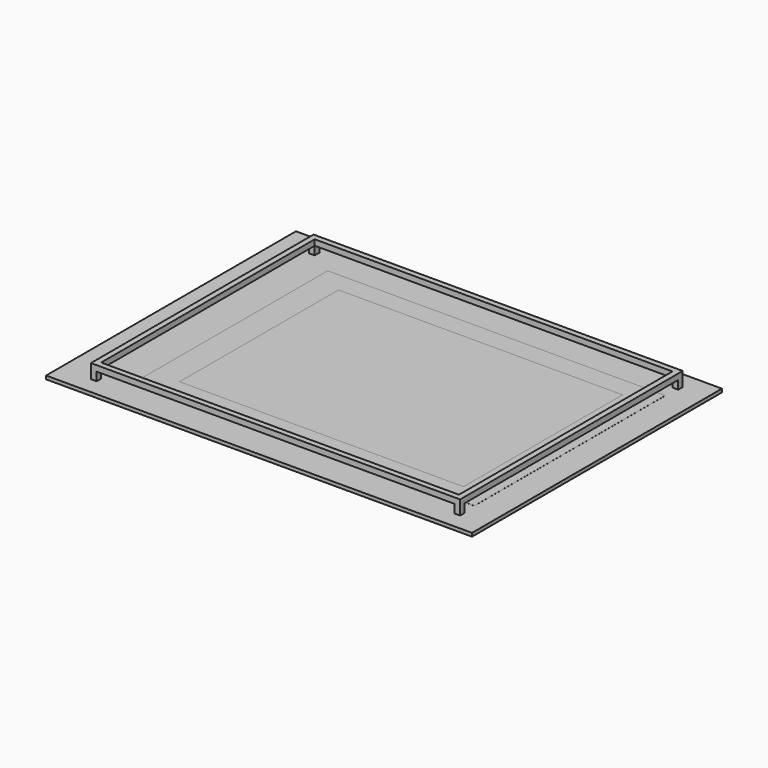
from build123d import *

# Parameters (mm, degrees)
F1_W      = 1500
F1_H      = 1100
F3_DEPTH  = 12
F5_W      = 1300
F5_H      = 980
F5_W_2    = 1260
F5_H_2    = 940
F6_DEPTH  = 10
F7_W      = 20
F7_H      = 20
F8_DEPTH  = 50
F9_DEPTH  = 12
F10_W     = 1189
F10_H     = 841
F11_DEPTH = 0.2
F12_W     = 1000
F12_H     = 700
F13_DEPTH = 0.2


with BuildPart() as f3:
    # F1 (on Top) → F3 (new body)
    with BuildSketch(Plane.XY):
        with Locations((-10, 0)):
            Rectangle(F1_W, F1_H)
    extrude(amount=-F3_DEPTH)



with BuildPart() as f6:
    # F5 (on offset) → F6 (new body, symmetric)
    with BuildSketch(Plane.XY.offset(40)):
        Rectangle(F5_W, F5_H)
        Rectangle(F5_W_2, F5_H_2, mode=Mode.SUBTRACT)
    extrude(amount=F6_DEPTH, both=True)


with BuildPart() as f3_1:
    add(f3.part)

    add(f6.part)  # F8 merges F6
    # F7 (on face) → F8 (join, through all)
    with BuildSketch(Plane.XY.offset(50)):
        with Locations((-640, 480)):
            Rectangle(F7_W, F7_H)
        with Locations((640, 480)):
            Rectangle(F7_W, F7_H)
        with Locations((640, -480)):
            Rectangle(F7_W, F7_H)
        with Locations((-640, -480)):
            Rectangle(F7_W, F7_H)
    extrude(amount=-F8_DEPTH)


with BuildPart() as f9:
    # F1 (on Top) → F9 (new body)
    with BuildSketch(Plane.XY):
        with Locations((-10, 0)):
            Rectangle(F1_W, F1_H)
    extrude(amount=-F9_DEPTH)


with BuildPart() as f11:
    # F10 (on face) → F11 (new body)
    with BuildSketch(Plane.XY):
        with Locations((50, 0)):
            Rectangle(F10_W, F10_H)
    extrude(amount=F11_DEPTH)


with BuildPart() as f13:
    # F12 (on face) → F13 (new body)
    with BuildSketch(Plane.XY):
        with Locations((50, 0)):
            Rectangle(F12_W, F12_H)
    extrude(amount=F13_DEPTH)


solid = Compound([f3_1.part, f9.part, f11.part, f13.part])
